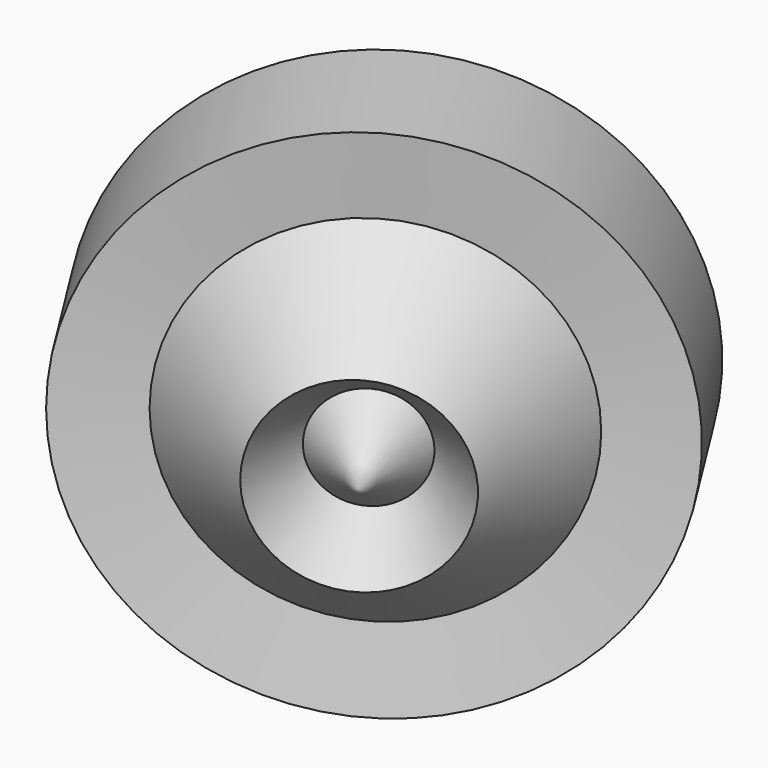
from build123d import *


with BuildPart() as f1:
    # F0 (on Top) → F1 (revolve)
    with BuildSketch(Plane.XY):
        Polygon((28.2708145678, 27.8685949743), (0, 0), (-37.1984429657, 46.4678183198), (-62.4933801591, 8.8973930106), (-37.1984429657, -31.2769263983), (-15.9953292459, -14.1656426713), (28.2708145678, -31.2769263983), (28.2708145678, -4.8660314642), (55.7896181574, -15.8377481846), align=None)
    revolve(axis=Axis((42.0302163626, 6.0154233948, 0), (0.5328131994, -0.8462328843, 0)))


solid = f1.part
